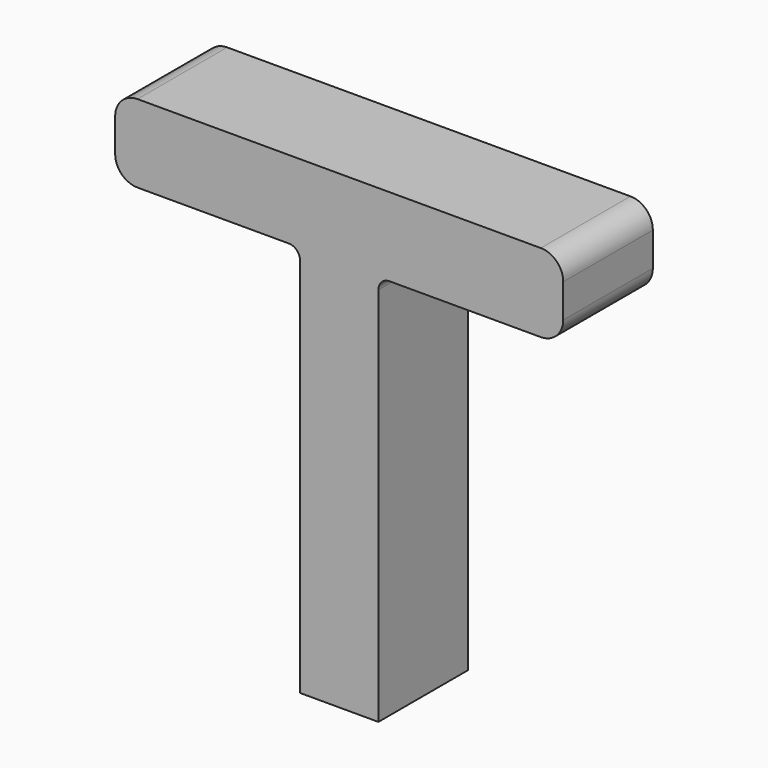
from build123d import *

# Parameters (mm, degrees)
F1_DEPTH = 10
F2_R     = 2
F3_R     = 1


with BuildPart() as f1:
    # F0 (on Front) → F1 (new body)
    with BuildSketch(Plane.XZ):
        Polygon((0, 16.178953), (0, -18.821047), (7, -18.821047), (7, 16.135083), (23.5, 16.135083), (23.5, 23.135083), (-16.5, 23.135083), (-16.5, 16.178953), (-5, 16.178953), align=None)
    extrude(amount=F1_DEPTH)

    # F2
    f2_edges = [f1.edges().sort_by_distance(p)[0] for p in [
        (-16.5, -5, 23.135083),
        (23.5, -5, 23.135083),
        (-16.5, -5, 16.178953),
        (23.5, -5, 16.135083),
    ]]
    fillet(f2_edges, radius=F2_R)

    # F3
    f3_edges = [f1.edges().sort_by_distance(p)[0] for p in [
        (0, -5, 16.178953),
        (7, -5, 16.135083),
    ]]
    fillet(f3_edges, radius=F3_R)


solid = f1.part
